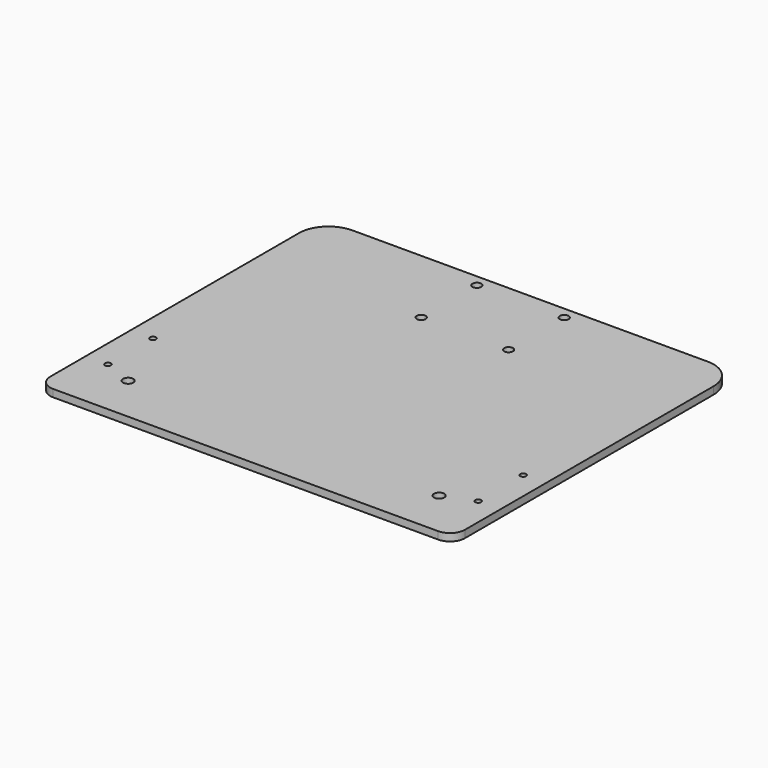
from build123d import *

# Parameters (mm, degrees)
F0_R     = 1
F0_R_2   = 1.75
F0_R_3   = 1.5
F1_DEPTH = 2.5


with BuildPart() as f1:
    # F0 (on Top) → F1 (new body)
    with BuildSketch(Plane.XY):
        with BuildLine():
            ThreePointArc((70, 50), (67.071068, 57.071068), (60, 60))
            Line((60, 60), (-60, 60))
            ThreePointArc((-60, 60), (-67.071068, 57.071068), (-70, 50))
            Line((-70, 50), (-70, -55))
            ThreePointArc((-70, -55), (-68.535534, -58.535534), (-65, -60))
            Line((-65, -60), (65, -60))
            ThreePointArc((65, -60), (68.535534, -58.535534), (70, -55))
            Line((70, -55), (70, 50))
        make_face()
        with Locations((-62.5, -40)):
            Circle(F0_R, mode=Mode.SUBTRACT)
        with Locations((-52.5, -44)):
            Circle(F0_R_2, mode=Mode.SUBTRACT)
        with Locations((-62.5, -21)):
            Circle(F0_R, mode=Mode.SUBTRACT)
        with Locations((52.5, -44)):
            Circle(F0_R_2, mode=Mode.SUBTRACT)
        with Locations((62.5, -40)):
            Circle(F0_R, mode=Mode.SUBTRACT)
        with Locations((62.5, -21)):
            Circle(F0_R, mode=Mode.SUBTRACT)
        with Locations((-14.75, 32.5)):
            Circle(F0_R_3, mode=Mode.SUBTRACT)
        with Locations((-14.75, 56)):
            Circle(F0_R_3, mode=Mode.SUBTRACT)
        with Locations((14.75, 32.5)):
            Circle(F0_R_3, mode=Mode.SUBTRACT)
        with Locations((14.75, 56)):
            Circle(F0_R_3, mode=Mode.SUBTRACT)
    extrude(amount=F1_DEPTH)


solid = f1.part
